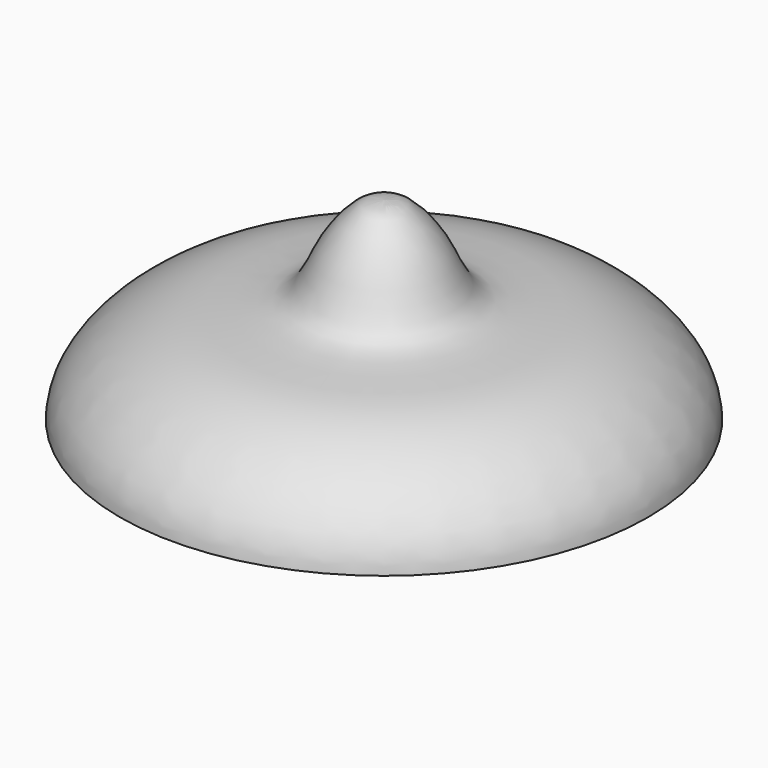
from build123d import *


with BuildPart() as f1:
    # F0 (on Front) → F1 (revolve)
    with BuildSketch(Plane.XZ):
        with BuildLine():
            Line((0, -47.195725143), (0, 46.959143132))
            add(Edge.make_bspline(
                [(-128.5126060247, -47.195725143), (-128.0695106052, -27.5693998168), (-86.3928041591, 5.5525472451), (-35.9353674462, -2.7469587933), (-27.862670946, 26.5000134108), (-12.6519724469, 44.5724927004), (-7.2709371098, 46.7351292377), (0, 46.959143132)],
                knots=[0, 0, 0, 0, 0.2824821066, 0.5242883827, 0.7028582346, 0.8689827881, 1, 1, 1, 1], degree=3))
            Line((-128.5126060247, -47.195725143), (0, -47.195725143))
        make_face()
    revolve(axis=Axis((0, 0, -0.1182910055), (0, 0, -1)))


solid = f1.part
